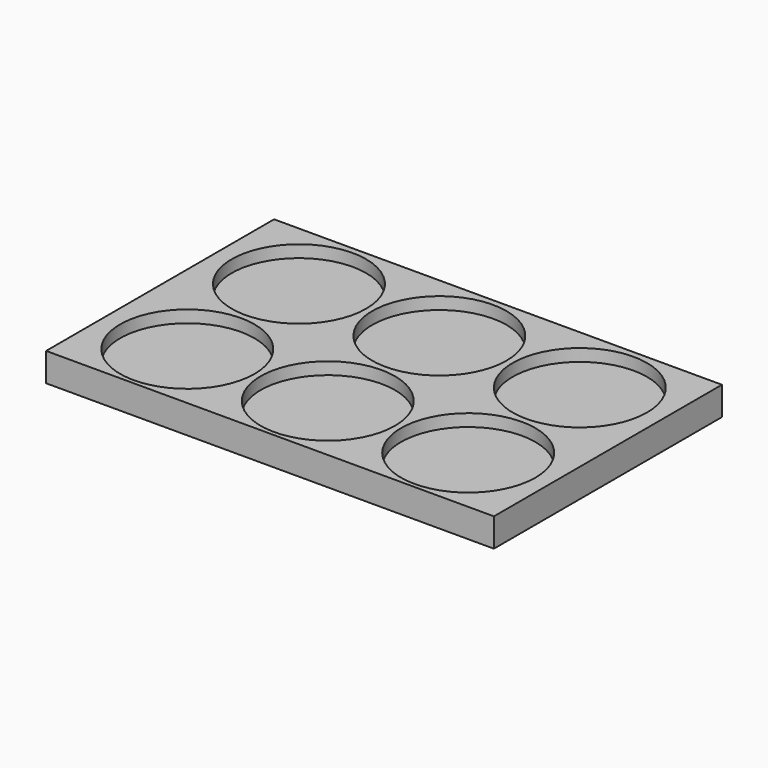
from build123d import *

# Parameters (mm, degrees)
F0_W     = 110
F0_H     = 70
F0_R     = 16.5
F1_DEPTH = 7
F2_DEPTH = 4


with BuildPart() as f1:
    # F0 (on Top) → F1 (new body)
    with BuildSketch(Plane.XY):
        with Locations((0, 33.521559)):
            Rectangle(F0_W, F0_H)
        with Locations((-34.310443, 16.02208)):
            Circle(F0_R, mode=Mode.SUBTRACT)
        with Locations((0.189557, 16.02208)):
            Circle(F0_R, mode=Mode.SUBTRACT)
        with Locations((34.689557, 16.02208)):
            Circle(F0_R, mode=Mode.SUBTRACT)
        with Locations((-34.5, 50.521559)):
            Circle(F0_R, mode=Mode.SUBTRACT)
        with Locations((0, 50.521559)):
            Circle(F0_R, mode=Mode.SUBTRACT)
        with Locations((34.5, 50.521559)):
            Circle(F0_R, mode=Mode.SUBTRACT)
    extrude(amount=F1_DEPTH)

    # F0 (on Top) → F2 (join)
    with BuildSketch(Plane.XY):
        with Locations((-34.5, 50.521559)):
            Circle(F0_R)
        with Locations((0, 50.521559)):
            Circle(F0_R)
        with Locations((34.5, 50.521559)):
            Circle(F0_R)
        with Locations((34.689557, 16.02208)):
            Circle(F0_R)
        with Locations((0.189557, 16.02208)):
            Circle(F0_R)
        with Locations((-34.310443, 16.02208)):
            Circle(F0_R)
    extrude(amount=F2_DEPTH)


solid = f1.part
